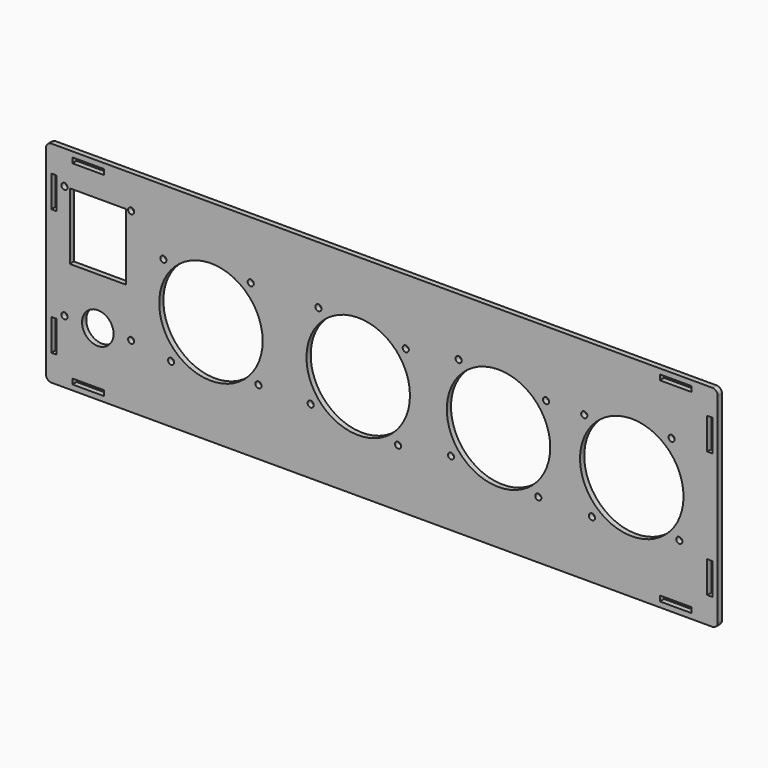
from build123d import *

# Parameters (mm, degrees)
F0_W     = 18
F0_H     = 3
F0_W_2   = 3
F0_H_2   = 18
F0_R     = 1.75
F0_R_2   = 9
F0_R_3   = 29.5
F0_W_3   = 32
F0_H_3   = 38
F1_DEPTH = 3


with BuildPart() as f1:
    # F0 (on Front) → F1 (new body)
    with BuildSketch(Plane.XZ):
        with BuildLine():
            Line((188.5, 60), (-188.5, 60))
            ThreePointArc((-188.5, 60), (-190.62132, 59.12132), (-191.5, 57))
            Line((-191.5, 57), (-191.5, -57))
            ThreePointArc((-191.5, -57), (-190.62132, -59.12132), (-188.5, -60))
            Line((-188.5, -60), (188.5, -60))
            ThreePointArc((188.5, -60), (190.62132, -59.12132), (191.5, -57))
            Line((191.5, -57), (191.5, 57))
            ThreePointArc((191.5, 57), (190.62132, 59.12132), (188.5, 60))
        make_face()
        with Locations((-167.5, -55.5)):
            Rectangle(F0_W, F0_H, mode=Mode.SUBTRACT)
        with Locations((-187, -36)):
            Rectangle(F0_W_2, F0_H_2, mode=Mode.SUBTRACT)
        with Locations((-181, -24)):
            Circle(F0_R, mode=Mode.SUBTRACT)
        with Locations((-162, -24)):
            Circle(F0_R_2, mode=Mode.SUBTRACT)
        with Locations((-120.2, -27.1)):
            Circle(F0_R, mode=Mode.SUBTRACT)
        with Locations((-143, -24)):
            Circle(F0_R, mode=Mode.SUBTRACT)
        with Locations((-70.4, -22.7)):
            Circle(F0_R, mode=Mode.SUBTRACT)
        with Locations((-40.6, -22.7)):
            Circle(F0_R, mode=Mode.SUBTRACT)
        with Locations((167.5, -55.5)):
            Rectangle(F0_W, F0_H, mode=Mode.SUBTRACT)
        with Locations((187, -36)):
            Rectangle(F0_W_2, F0_H_2, mode=Mode.SUBTRACT)
        with Locations((9.2, -27.1)):
            Circle(F0_R, mode=Mode.SUBTRACT)
        with Locations((39.4, -22.7)):
            Circle(F0_R, mode=Mode.SUBTRACT)
        with Locations((89.2, -27.1)):
            Circle(F0_R, mode=Mode.SUBTRACT)
        with Locations((119.8, -27.1)):
            Circle(F0_R, mode=Mode.SUBTRACT)
        with Locations((169.6, -22.7)):
            Circle(F0_R, mode=Mode.SUBTRACT)
        with Locations((-97.5, 0)):
            Circle(F0_R_3, mode=Mode.SUBTRACT)
        with Locations((-162, 22)):
            Rectangle(F0_W_3, F0_H_3, mode=Mode.SUBTRACT)
        with Locations((-124.6, 22.7)):
            Circle(F0_R, mode=Mode.SUBTRACT)
        with Locations((-13.5, 0)):
            Circle(F0_R_3, mode=Mode.SUBTRACT)
        with Locations((-74.8, 27.1)):
            Circle(F0_R, mode=Mode.SUBTRACT)
        with Locations((-36.2, 27.1)):
            Circle(F0_R, mode=Mode.SUBTRACT)
        with Locations((-187, 36)):
            Rectangle(F0_W_2, F0_H_2, mode=Mode.SUBTRACT)
        with Locations((-181, 41)):
            Circle(F0_R, mode=Mode.SUBTRACT)
        with Locations((-143, 41)):
            Circle(F0_R, mode=Mode.SUBTRACT)
        with Locations((-167.5, 55.5)):
            Rectangle(F0_W, F0_H, mode=Mode.SUBTRACT)
        with Locations((66.5, 0)):
            Circle(F0_R_3, mode=Mode.SUBTRACT)
        with Locations((13.6, 22.7)):
            Circle(F0_R, mode=Mode.SUBTRACT)
        with Locations((43.8, 27.1)):
            Circle(F0_R, mode=Mode.SUBTRACT)
        with Locations((93.6, 22.7)):
            Circle(F0_R, mode=Mode.SUBTRACT)
        with Locations((142.5, 0)):
            Circle(F0_R_3, mode=Mode.SUBTRACT)
        with Locations((115.4, 22.7)):
            Circle(F0_R, mode=Mode.SUBTRACT)
        with Locations((165.2, 27.1)):
            Circle(F0_R, mode=Mode.SUBTRACT)
        with Locations((187, 36)):
            Rectangle(F0_W_2, F0_H_2, mode=Mode.SUBTRACT)
        with Locations((167.5, 55.5)):
            Rectangle(F0_W, F0_H, mode=Mode.SUBTRACT)
    extrude(amount=F1_DEPTH)


solid = f1.part
